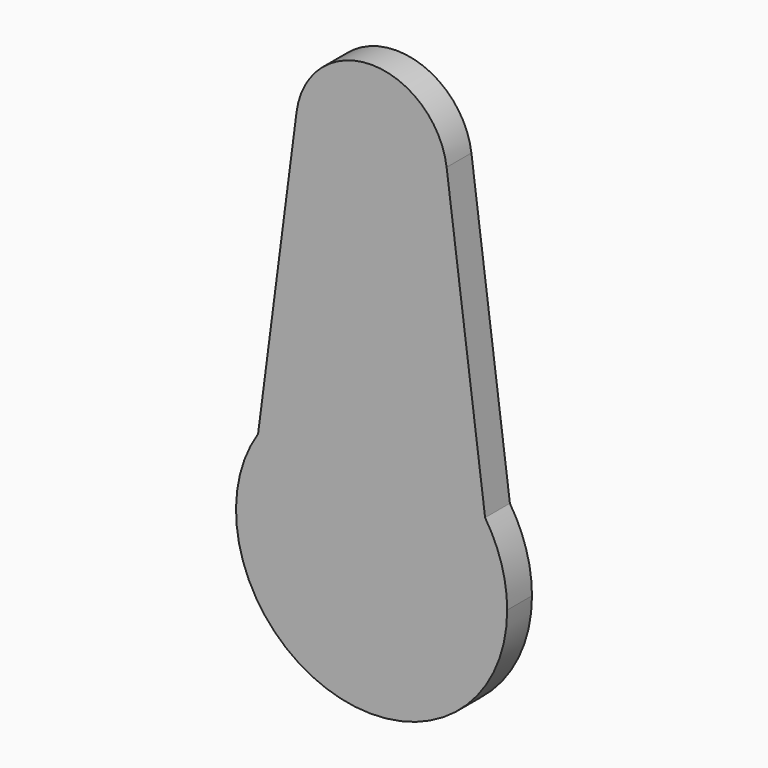
from build123d import *

# Parameters (mm, degrees)
F1_DEPTH = 2.54


with BuildPart() as f1:
    # F0 (on Front) → F1 (new body, symmetric)
    with BuildSketch(Plane.XZ):
        with BuildLine():
            ThreePointArc((22.225, -27.402156), (21.301463, -21.061942), (18.607604, -15.24865))
            ThreePointArc((18.607604, -15.24865), (0, -5.177156), (-18.607604, -15.24865))
            ThreePointArc((-18.607604, -15.24865), (-6.340214, -48.703618), (22.225, -27.402156))
        make_face()
        with BuildLine():
            ThreePointArc((-12.297477, 33.262177), (-0.801483, 19.287411), (12.401077, 31.662562))
            ThreePointArc((12.401077, 31.662562), (12.37515, 32.464045), (12.297477, 33.262177))
            ThreePointArc((12.297477, 33.262177), (0, 44.063639), (-12.297477, 33.262177))
        make_face()
        with BuildLine():
            ThreePointArc((12.297477, 33.262177), (12.37515, 32.464045), (12.401077, 31.662562))
            ThreePointArc((12.401077, 31.662562), (-0.801483, 19.287411), (-12.297477, 33.262177))
            Line((-12.297477, 33.262177), (-18.607604, -15.24865))
            ThreePointArc((-18.607604, -15.24865), (0, -5.177156), (18.607604, -15.24865))
            Line((18.607604, -15.24865), (12.297477, 33.262177))
        make_face()
    extrude(amount=F1_DEPTH, both=True)


solid = f1.part
